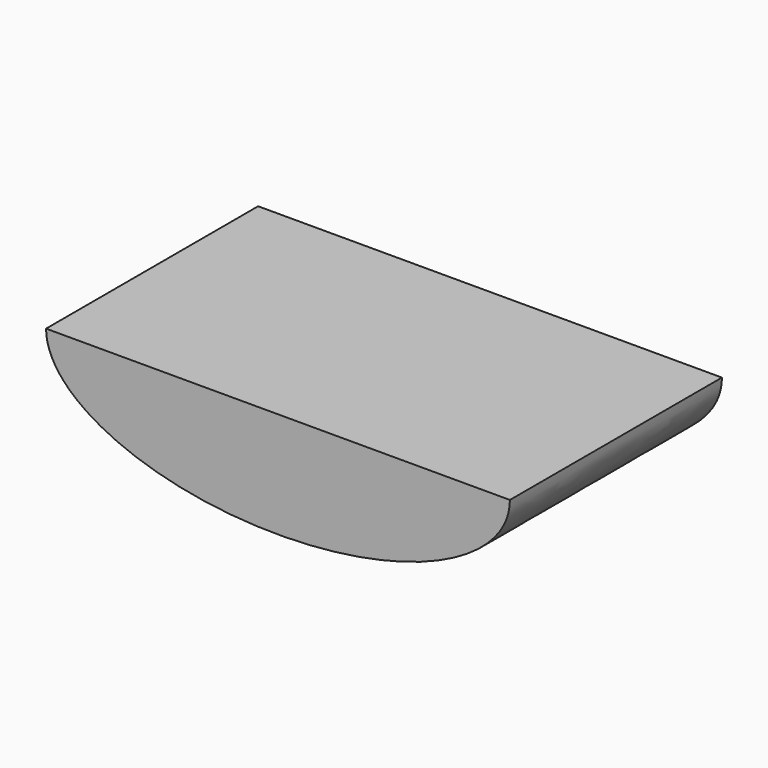
from build123d import *

# Parameters (mm, degrees)
F1_DEPTH = 8


with BuildPart() as f1:
    # F0 (on Front) → F1 (new body)
    with BuildSketch(Plane.XZ):
        with BuildLine():
            Line((-48.7239111513, 41.8674312532), (-62.7239111513, 41.8674312532))
            add(Edge.make_bspline(
                [(-62.7239111513, 41.8674312532), (-62.7239111513, 38.6720331235), (-55.7239111513, 38.6720331235), (-48.7239111513, 38.6720331235), (-48.7239111513, 41.8674312532)],
                knots=[0, 0, 0, 1.5707963268, 1.5707963268, 3.1415926536, 3.1415926536, 3.1415926536], degree=2, weights=[1, 0.7071067812, 1, 0.7071067812, 1]))
        make_face()
    extrude(amount=F1_DEPTH)


solid = f1.part
